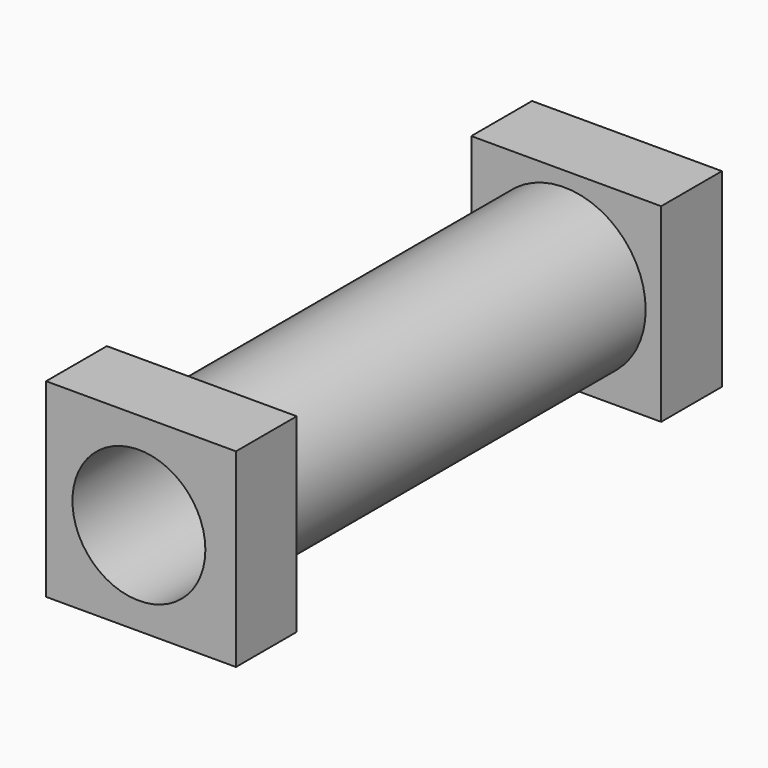
from build123d import *

# Parameters (mm, degrees)
F0_R          = 27.233083
F1_DEPTH      = 101.6
F1_DEPTH_BACK = 101.6
F2_W          = 63.5
F2_H          = 63.5
F2_R          = 27.233083
F3_DEPTH      = 25.4
F5_W          = 63.5
F5_H          = 63.5
F6_DEPTH      = 25.4
F4_R          = 22.225
F7_DEPTH      = 203.2


with BuildPart() as f1:
    # F0 (on Front) → F1 (new body, two sides)
    with BuildSketch(Plane.XZ) as f1_sk:
        Circle(F0_R)
    extrude(amount=F1_DEPTH)
    extrude(f1_sk.sketch, amount=-F1_DEPTH_BACK)

    # F2 (on face) → F3 (join)
    with BuildSketch(Plane.XZ.offset(101.6)):
        with Locations((0.706917, 0.563083)):
            Rectangle(F2_W, F2_H)
        Circle(F2_R, mode=Mode.SUBTRACT)
    extrude(amount=-F3_DEPTH)

    # F5 (on face) → F6 (join)
    with BuildSketch(Plane(origin=(0, 101.6, 0), x_dir=(-1, 0, 0), z_dir=(0, 1, 0))):
        with Locations((-0.664903, 0.443074)):
            Rectangle(F5_W, F5_H)
    extrude(amount=-F6_DEPTH)

    # F4 (on face) → F7 (cut)
    with BuildSketch(Plane.XZ.offset(101.6)):
        Circle(F4_R)
    extrude(amount=-F7_DEPTH, mode=Mode.SUBTRACT)


solid = f1.part
